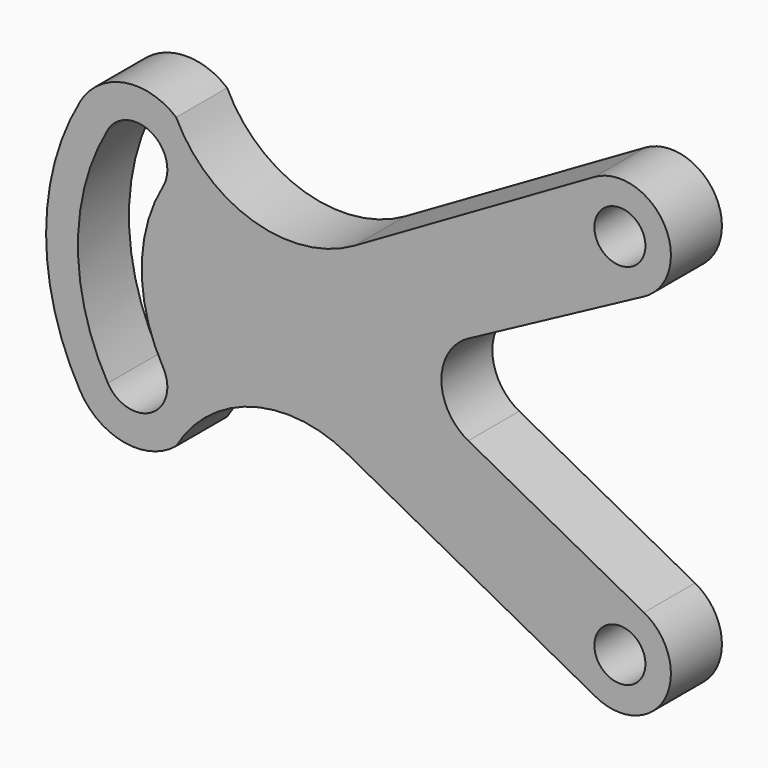
from build123d import *

# Parameters (mm, degrees)
F0_R     = 10
F1_DEPTH = 25


with BuildPart() as f1:
    # F0 (on Front) → F1 (new body)
    with BuildSketch(Plane.XZ):
        with BuildLine():
            Line((65.554609, 17.629084), (134.445391, 54.5397))
            ThreePointArc((134.445391, 54.5397), (142.476996, 81.892703), (115, 89.489292))
            Line((115, 89.489292), (21.000572, 35.218697))
            ThreePointArc((21.000572, 35.218697), (-18.704666, 30.731307), (-49.0183, 56.764481))
            ThreePointArc((-49.0183, 56.764481), (-69.380297, 62.104661), (-86.60254, 50))
            ThreePointArc((-86.60254, 50), (-100, 0), (-86.60254, -50))
            ThreePointArc((-86.60254, -50), (-69.380297, -62.104661), (-49.0183, -56.764481))
            ThreePointArc((-49.0183, -56.764481), (-19.419281, -33.5396), (17.992089, -37.525377))
            Line((17.992089, -37.525377), (115.554609, -89.797867))
            ThreePointArc((115.554609, -89.797867), (142.629084, -81.614174), (134.445391, -54.5397))
            Line((134.445391, -54.5397), (65.554609, -17.629084))
            ThreePointArc((65.554609, -17.629084), (55, 0), (65.554609, 17.629084))
        make_face()
        with BuildLine():
            ThreePointArc((-75.777223, 43.75), (-67.680804, 49.698488), (-57.821535, 47.766831))
            ThreePointArc((-57.821535, 47.766831), (-52.753417, 40.228899), (-54.126588, 31.25))
            ThreePointArc((-54.126588, 31.25), (-62.5, 0), (-54.126588, -31.25))
            ThreePointArc((-54.126588, -31.25), (-52.753417, -40.228899), (-57.821535, -47.766831))
            ThreePointArc((-57.821535, -47.766831), (-67.680804, -49.698488), (-75.777223, -43.75))
            ThreePointArc((-75.777223, -43.75), (-87.5, 0), (-75.777223, 43.75))
        make_face(mode=Mode.SUBTRACT)
        with Locations((125, -72.168784)):
            Circle(F0_R, mode=Mode.SUBTRACT)
        with Locations((125, 72.168784)):
            Circle(F0_R, mode=Mode.SUBTRACT)
    extrude(amount=F1_DEPTH)


solid = f1.part
